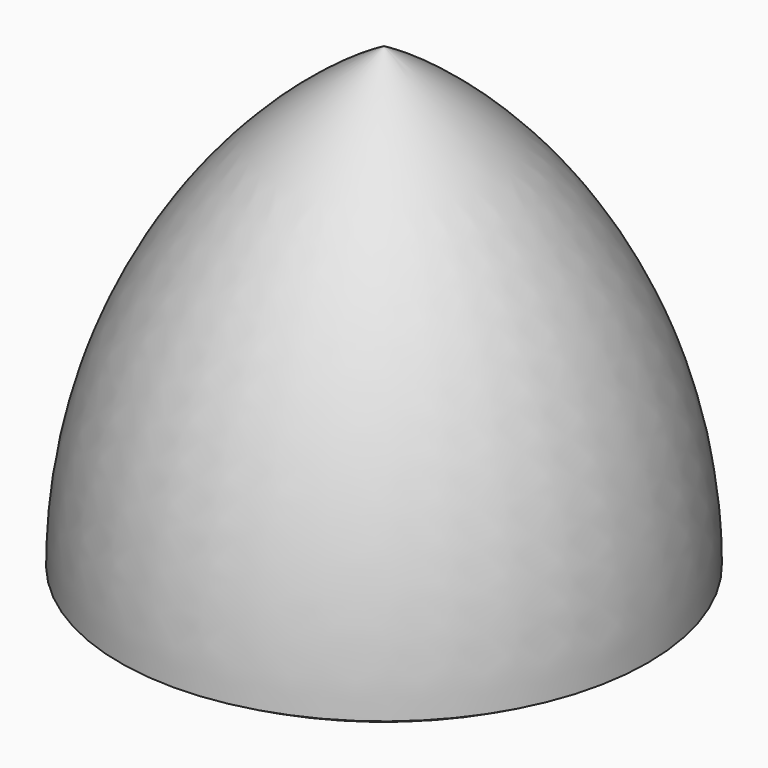
from build123d import *


with BuildPart() as f1:
    # F0 (on Front) → F1 (revolve)
    with BuildSketch(Plane.XZ):
        Polygon((87.988181, -50.8), (0, 101.6), (0, -50.8), align=None)
        with BuildLine():
            ThreePointArc((87.988181, -50.8), (64.411819, 37.188181), (0, 101.6))
            Line((0, 101.6), (87.988181, -50.8))
        make_face()
        with BuildLine():
            ThreePointArc((0, -203.2), (64.411819, -138.788181), (87.988181, -50.8))
            ThreePointArc((87.988181, -50.8), (45.546034, -68.380113), (0, -74.376362))
            ThreePointArc((0, -74.376362), (-45.546034, -68.380113), (-87.988181, -50.8))
            ThreePointArc((-87.988181, -50.8), (-64.411819, -138.788181), (0, -203.2))
        make_face()
    revolve(axis=Axis((0, 0, 12.7), (0, 0, -1)))


solid = f1.part
